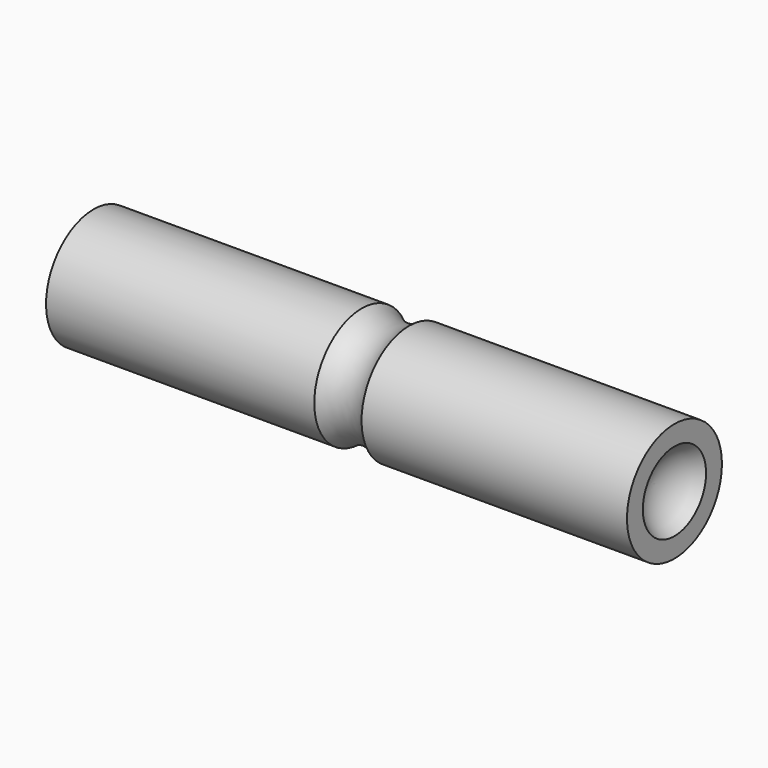
from build123d import *

# Parameters (mm, degrees)
F0_R     = 1.9812
F1_DEPTH = 9.9695


with BuildPart() as f1:
    # F0 (on Right) → F1 (new body, symmetric)
    with BuildSketch(Plane.YZ):
        Circle(F0_R)
    extrude(amount=F1_DEPTH, both=True)

    # F2 (on Front) → F3 (revolve, cut)
    with BuildSketch(Plane.XZ):
        with BuildLine():
            Line((9.9695, 0), (9.9695, 1.319823))
            ThreePointArc((9.9695, 1.319823), (9.411677, 0.762), (9.2075, 0))
            Line((9.2075, 0), (9.9695, 0))
        make_face()
    revolve(axis=Axis((9.5885, 0, 0), (-1, 0, 0)), mode=Mode.SUBTRACT)

    # F4 (on Front) → F5 (revolve, cut)
    with BuildSketch(Plane.XZ):
        with BuildLine():
            Line((1.106748, 1.9812), (-0.471748, 1.9812))
            ThreePointArc((-0.471748, 1.9812), (0.3175, 1.7018), (1.106748, 1.9812))
        make_face()
    revolve(axis=Axis((0.029078, 0, 0), (1, 0, 0)), mode=Mode.SUBTRACT)

    # F6 (on Front) → F7 (revolve, cut)
    with BuildSketch(Plane.XZ):
        with BuildLine():
            ThreePointArc((-9.9441, 0), (-9.813081, 1.0236), (-9.428472, 1.9812))
            Line((-9.428472, 1.9812), (-9.9695, 1.9812))
            Line((-9.9695, 1.9812), (-9.9695, 0))
            Line((-9.9695, 0), (-9.9441, 0))
        make_face()
    revolve(axis=Axis((-9.9568, 0, 0), (1, 0, 0)), mode=Mode.SUBTRACT)


solid = f1.part
